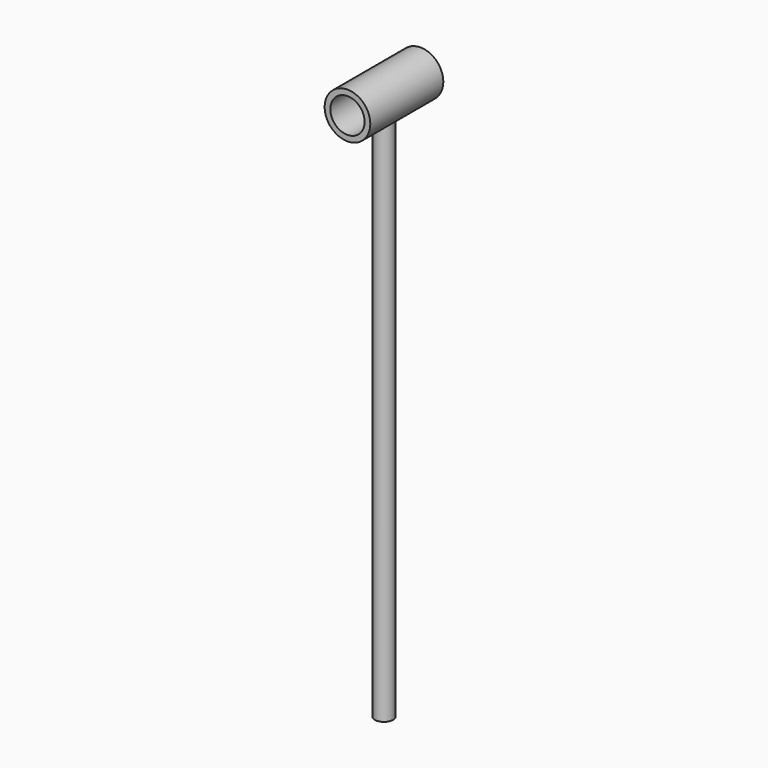
from build123d import *

# Parameters (mm, degrees)
F0_R     = 6.35
F0_R_2   = 4.7625
F1_DEPTH = 25.4
F2_R     = 2.54
F3_DEPTH = 152.4
F4_R     = 4.7625
F5_DEPTH = 25.4


with BuildPart() as f1:
    # F0 (on Front) → F1 (new body)
    with BuildSketch(Plane.XZ):
        Circle(F0_R)
        Circle(F0_R_2, mode=Mode.SUBTRACT)
    extrude(amount=F1_DEPTH)

    # F2 (on Top) → F3 (join)
    with BuildSketch(Plane.XY):
        with Locations((0, -12.7)):
            Circle(F2_R)
    extrude(amount=-F3_DEPTH)

    # F4 (on face) → F5 (cut)
    with BuildSketch(Plane.XZ.offset(25.4)):
        Circle(F4_R)
    extrude(amount=-F5_DEPTH, mode=Mode.SUBTRACT)


solid = f1.part
